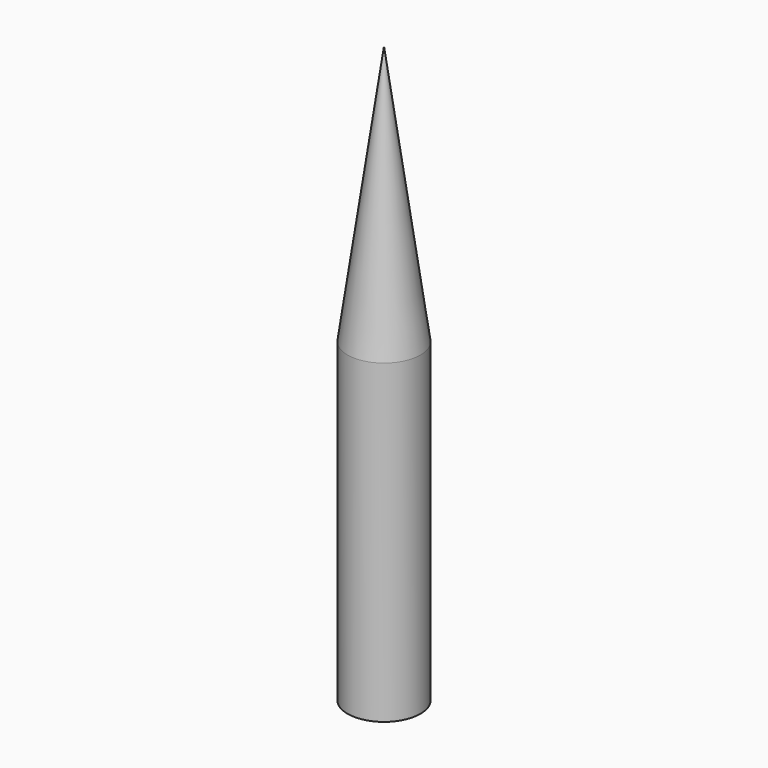
from build123d import *


with BuildPart() as f1:
    # F0 (on Right) → F1 (revolve)
    with BuildSketch(Plane.YZ):
        Polygon((0, 150.527403), (0, 0), (9.525, 0), (9.525, 82.55), align=None)
    revolve(axis=Axis((0, 0, 75.263701), (0, 0, -1)))


solid = f1.part
